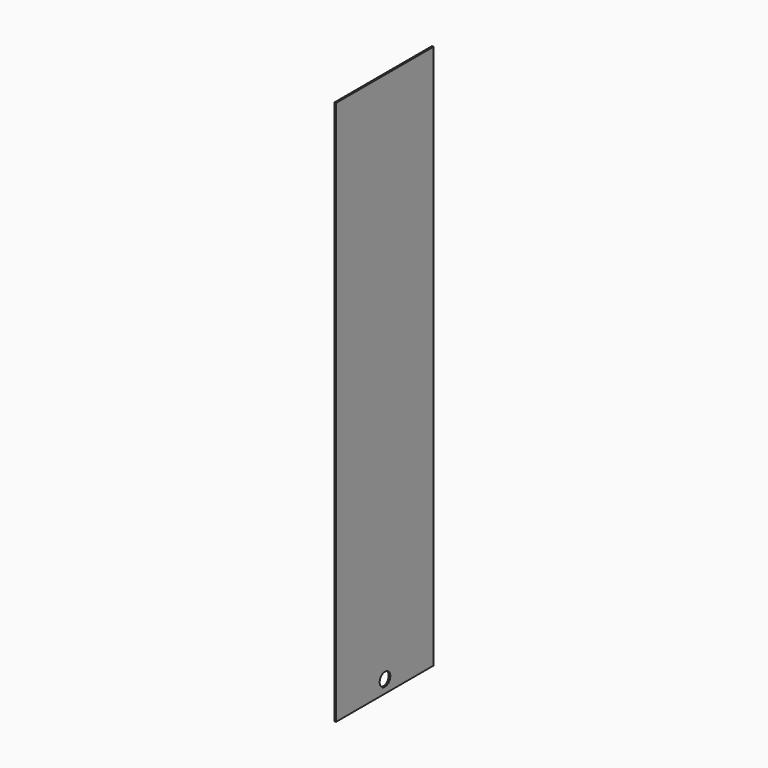
from build123d import *

# Parameters (mm, degrees)
F0_W     = 150
F0_H     = 670
F1_DEPTH = 2
F2_R     = 8.203704
F3_DEPTH = 25


with BuildPart() as f1:
    # F0 (on Right) → F1 (new body)
    with BuildSketch(Plane.YZ):
        with Locations((-5.142859, 0)):
            Rectangle(F0_W, F0_H)
    extrude(amount=F1_DEPTH)

    # F2 (on face) → F3 (cut)
    with BuildSketch(Plane(origin=(0, 0, 0), x_dir=(0, -1, 0), z_dir=(-1, 0, 0))):
        with Locations((4.890329, -319.334686)):
            Circle(F2_R)
    extrude(amount=-F3_DEPTH, mode=Mode.SUBTRACT)


solid = f1.part
